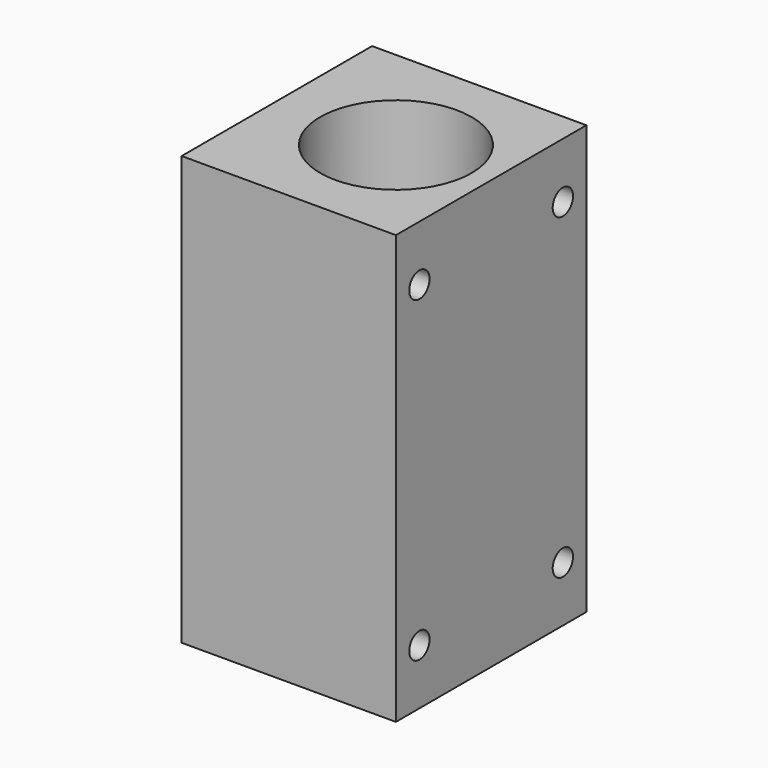
from build123d import *

# Parameters (mm, degrees)
F0_W     = 27
F0_H     = 30
F0_R     = 9.55
F1_DEPTH = 27
F2_R     = 1.6
F3_DEPTH = 27.001
F5_DEPTH = 3


with BuildPart() as f1:
    # F0 (on Top) → F1 (new body, symmetric)
    with BuildSketch(Plane.XY):
        with Locations((-1.5, 0)):
            Rectangle(F0_W, F0_H)
        Circle(F0_R, mode=Mode.SUBTRACT)
    extrude(amount=F1_DEPTH, both=True)

    # F2 (on face) → F3 (cut, through all)
    with BuildSketch(Plane.YZ.offset(12)):
        with Locations((11.3, 20)):
            Circle(F2_R)
        with Locations((11.3, -20)):
            Circle(F2_R)
        with Locations((-11.3, 20)):
            Circle(F2_R)
        with Locations((-11.3, -20)):
            Circle(F2_R)
    extrude(amount=-F3_DEPTH, mode=Mode.SUBTRACT)

    # F4 (on face) → F5 (cut)
    with BuildSketch(Plane(origin=(-15, 0, 0), x_dir=(0, -1, 0), z_dir=(-1, 0, 0))):
        Polygon((-11.3, -16.7091034656), (-14.15, -18.3545517328), (-14.15, -21.6454482672), (-11.3, -23.2908965344), (-8.45, -21.6454482672), (-8.45, -18.3545517328), align=None)
        Polygon((-11.3, 16.7091034656), (-8.45, 18.3545517328), (-8.45, 21.6454482672), (-11.3, 23.2908965344), (-14.15, 21.6454482672), (-14.15, 18.3545517328), align=None)
        Polygon((11.3, -16.7091034656), (8.45, -18.3545517328), (8.45, -21.6454482672), (11.3, -23.2908965344), (14.15, -21.6454482672), (14.15, -18.3545517328), align=None)
        Polygon((8.45, 18.3545517328), (11.3, 16.7091034656), (14.15, 18.3545517328), (14.15, 21.6454482672), (11.3, 23.2908965344), (8.45, 21.6454482672), align=None)
    extrude(amount=-F5_DEPTH, mode=Mode.SUBTRACT)


solid = f1.part
